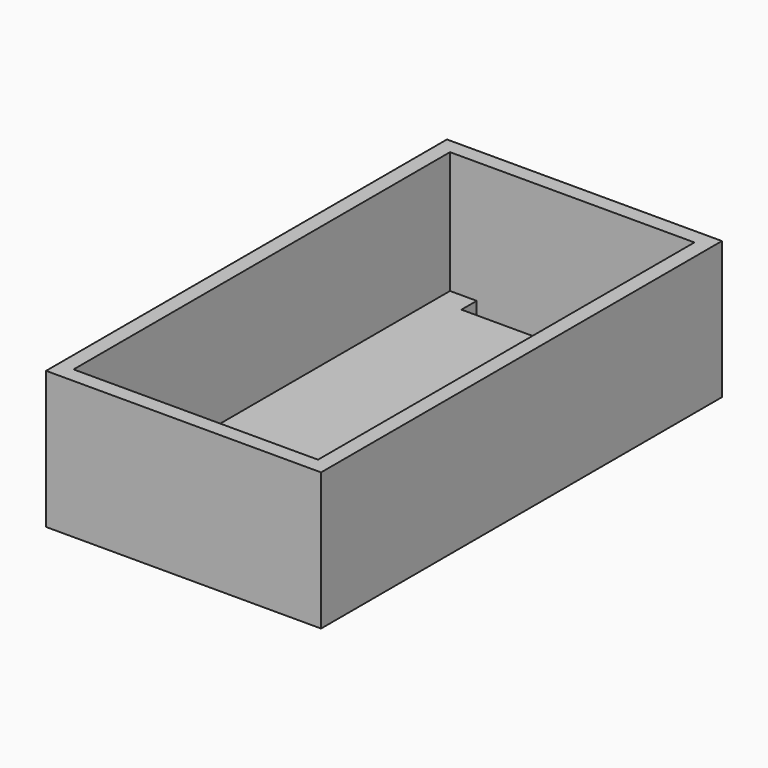
from build123d import *

# Parameters (mm, degrees)
F0_W     = 45.72
F0_H     = 83.312
F1_DEPTH = 2.54
F2_W     = 45.72
F2_H     = 83.312
F2_W_2   = 40.64
F2_H_2   = 78.232
F3_DEPTH = 20.32
F4_R     = 1.27
F4_R_2   = 2.54
F4_W     = 31.75
F4_H     = 3.175
F5_DEPTH = 25.4


with BuildPart() as f1:
    # F0 (on Top) → F1 (new body)
    with BuildSketch(Plane.XY):
        Rectangle(F0_W, F0_H)
    extrude(amount=F1_DEPTH)

    # F2 (on face) → F3 (join)
    with BuildSketch(Plane.XY.offset(2.54)):
        Rectangle(F2_W, F2_H)
        Rectangle(F2_W_2, F2_H_2, mode=Mode.SUBTRACT)
    extrude(amount=F3_DEPTH)

    # F4 (on face) → F5 (cut)
    with BuildSketch(Plane.XY.offset(2.54)):
        with Locations((0, 28.702)):
            Circle(F4_R)
        with Locations((0, -28.702)):
            Circle(F4_R)
        with Locations((17.78, 28.702)):
            Circle(F4_R_2)
        with Locations((-17.78, -28.702)):
            Circle(F4_R_2)
        with Locations((0, 37.5285)):
            Rectangle(F4_W, F4_H)
        with Locations((0, -37.5285)):
            Rectangle(F4_W, F4_H)
    extrude(amount=-F5_DEPTH, mode=Mode.SUBTRACT)


solid = f1.part
